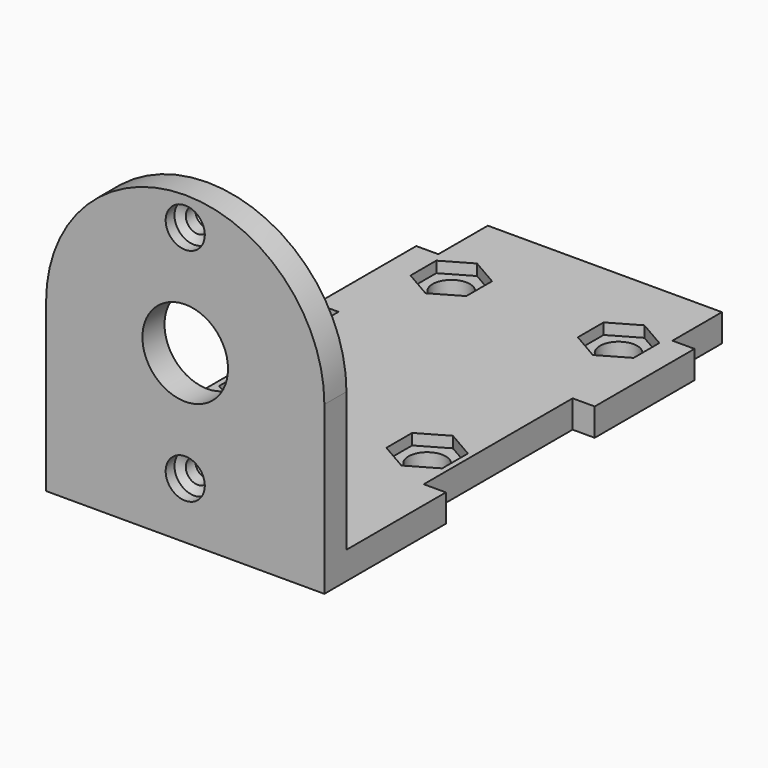
from build123d import *

# Parameters (mm, degrees)
F0_R     = 9.8425
F0_W     = 64.008
F0_H     = 6.35
F1_DEPTH = 6.35
F2_DEPTH = 114.3
F3_D     = 5.5
F4_R     = 4.28625
F5_DEPTH = 2.54
F6_DEPTH = 6.351
F4_W     = 5.08
F4_H     = 14.224
F4_H_2   = 42.799
F7_DEPTH = 6.351
F9_D     = 9
F9_DEPTH = 2.54
F9_TIP   = 2.7038727856


with BuildPart() as f1:
    # F0 (on Front) → F1 (new body)
    with BuildSketch(Plane.XZ):
        with BuildLine():
            Line((32.004, -32.004), (32.004, 0))
            ThreePointArc((32.004, 0), (0, 32.004), (-32.004, 0))
            Line((-32.004, 0), (-32.004, -32.004))
            Line((-32.004, -32.004), (32.004, -32.004))
        make_face()
        Circle(F0_R, mode=Mode.SUBTRACT)
        with Locations((0, -35.179)):
            Rectangle(F0_W, F0_H)
    extrude(amount=F1_DEPTH)

    # F0 (on Front) → F2 (join)
    with BuildSketch(Plane.XZ):
        with Locations((0, -35.179)):
            Rectangle(F0_W, F0_H)
    extrude(amount=-F2_DEPTH)

    # F3 (through all)
    with Locations(Plane(origin=(0, 0, 0), x_dir=(1, 0, 0), z_dir=(0, 1, 0))):
        with Locations((0, -25.4), (0, 25.4)):
            Hole(F3_D / 2)

    # F4 (on face) → F5 (cut)
    with BuildSketch(Plane.XY.offset(-32.004)):
        Polygon((-12.827, 90.4914921457), (-12.827, 97.8971640486), (-19.2405, 101.6), (-25.654, 97.8971640486), (-25.654, 90.4914921457), (-19.2405, 86.7886561942), align=None)
        with Locations((-19.2405, 94.1943280971)):
            Circle(F4_R, mode=Mode.SUBTRACT)
        Polygon((25.654, 90.4914921457), (25.654, 97.8971640486), (19.2405, 101.6), (12.827, 97.8971640486), (12.827, 90.4914921457), (19.2405, 86.7886561942), align=None)
        with Locations((19.2405, 94.1943280971)):
            Circle(F4_R, mode=Mode.SUBTRACT)
        Polygon((25.654, 35.4528359514), (25.654, 42.8585078543), (19.2405, 46.5613438058), (12.827, 42.8585078543), (12.827, 35.4528359514), (19.2405, 31.75), align=None)
        with Locations((19.2405, 39.1556719029)):
            Circle(F4_R, mode=Mode.SUBTRACT)
        Polygon((-12.827, 35.4528359514), (-12.827, 42.8585078543), (-19.2405, 46.5613438058), (-25.654, 42.8585078543), (-25.654, 35.4528359514), (-19.2405, 31.75), align=None)
        with Locations((-19.2405, 39.1556719029)):
            Circle(F4_R, mode=Mode.SUBTRACT)
    extrude(amount=-F5_DEPTH, mode=Mode.SUBTRACT)

    # F6 (cut, through all): faces of the model
    f6_faces = [f1.faces().sort_by_distance(p)[0] for p in [
        (-19.2405, 94.1943280971, -32.004),
        (19.2405, 94.1943280971, -32.004),
        (19.2405, 39.1556719029, -32.004),
        (-19.2405, 39.1556719029, -32.004),
    ]]
    extrude(f6_faces, amount=-F6_DEPTH, mode=Mode.SUBTRACT)

    # F4 (on face) → F7 (cut, through all)
    with BuildSketch(Plane.XY.offset(-32.004)):
        with Locations((29.464, 107.188)):
            Rectangle(F4_W, F4_H)
        with Locations((29.464, 49.9745)):
            Rectangle(F4_W, F4_H_2)
        with Locations((-29.464, 107.188)):
            Rectangle(F4_W, F4_H)
        with Locations((-29.464, 49.9745)):
            Rectangle(F4_W, F4_H_2)
    extrude(amount=-F7_DEPTH, mode=Mode.SUBTRACT)

    # F9
    with Locations(Plane.XZ.offset(6.35)):
        with Locations((0, 25.4), (0, -25.4)):
            Hole(F9_D / 2, depth=F9_DEPTH)
            with Locations((0, 0, -(F9_DEPTH + F9_TIP / 2))):  # 118° drill point
                Cone(0, F9_D / 2, F9_TIP, mode=Mode.SUBTRACT)


solid = f1.part
